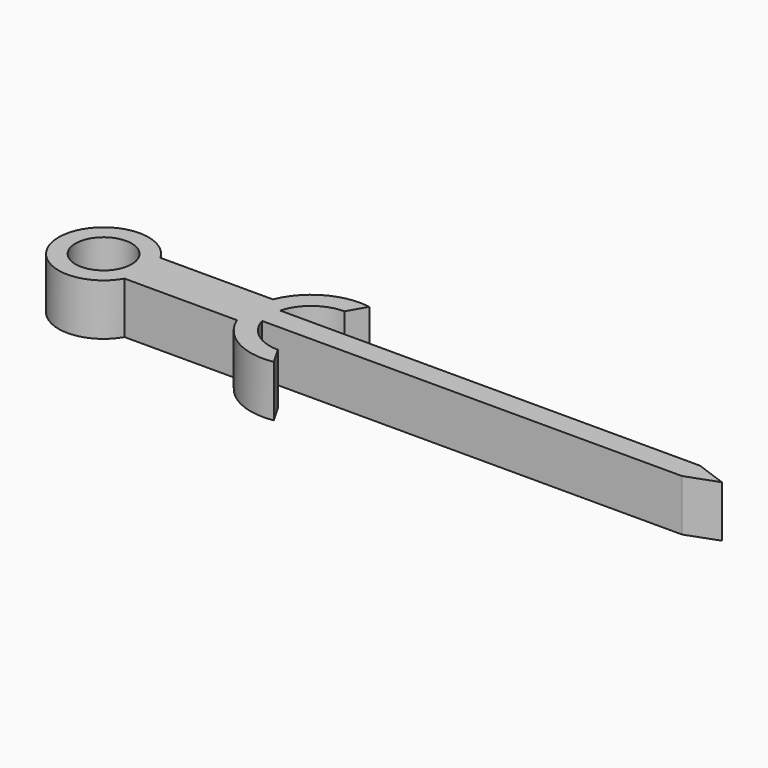
from build123d import *

# Parameters (mm, degrees)
F0_R     = 2.5
F1_DEPTH = 2.29


with BuildPart() as f1:
    # F0 (on Top) → F1 (new body, symmetric)
    with BuildSketch(Plane.XY):
        with BuildLine():
            Line((3.4641016151, -2), (3.4641016151, 0))
            Line((3.4641016151, 0), (3.4641016151, 2))
            ThreePointArc((3.4641016151, 2), (-4, 0), (3.4641016151, -2))
        make_face()
        Circle(F0_R, mode=Mode.SUBTRACT)
        with BuildLine():
            Line((4, 0), (3.4641016151, 0))
            Line((3.4641016151, 0), (3.4641016151, -2))
            ThreePointArc((3.4641016151, -2), (3.8637033052, -1.0352761804), (4, 0))
        make_face()
        with BuildLine():
            Line((3.4641016151, 2), (3.4641016151, 0))
            Line((3.4641016151, 0), (4, 0))
            ThreePointArc((4, 0), (3.8637033052, 1.0352761804), (3.4641016151, 2))
        make_face()
        with BuildLine():
            Line((13.4641016151, 0), (4, 0))
            ThreePointArc((4, 0), (3.8637033052, -1.0352761804), (3.4641016151, -2))
            Line((3.4641016151, -2), (13.4641016151, -2))
            Line((13.4641016151, -2), (13.4641016151, 0))
        make_face()
        with BuildLine():
            ThreePointArc((3.4641016151, 2), (3.8637033052, 1.0352761804), (4, 0))
            Line((4, 0), (13.4641016151, 0))
            Line((13.4641016151, 0), (13.4641016151, 2))
            Line((13.4641016151, 2), (3.4641016151, 2))
        make_face()
        Polygon((14.4215287229, 0), (13.4641016151, 0), (13.4641016151, -2), align=None)
        Polygon((13.4641016151, 2), (13.4641016151, 0), (14.4215287229, 0), align=None)
        Polygon((16.3363829384, 0), (14.4215287229, 0), (14.9002422768, -1), align=None)
        Polygon((14.9002422768, 1), (14.4215287229, 0), (16.3363829384, 0), align=None)
        Polygon((14.4215287229, 0), (13.4641016151, -2), (14.9002422768, -1), align=None)
        with BuildLine():
            Line((14.9002422768, -1), (13.4641016151, -2))
            ThreePointArc((13.4641016151, -2), (15.841018376, -4.7031302683), (19.3898786666, -5.3049916919))
            Line((19.3898786666, -5.3049916919), (18.4641016151, -3.7014988023))
            ThreePointArc((18.4641016151, -3.7014988023), (16.2280789653, -2.9497959409), (14.9002422768, -1))
        make_face()
        Polygon((16.3363829384, 0), (14.9002422768, -1), (52.2525225805, -1), (55, 0), align=None)
        Polygon((52.2525225805, 1), (14.9002422768, 1), (16.3363829384, 0), (55, 0), align=None)
        with BuildLine():
            ThreePointArc((19.3898786666, 5.3049916919), (15.841018376, 4.7031302683), (13.4641016151, 2))
            Line((13.4641016151, 2), (14.9002422768, 1))
            ThreePointArc((14.9002422768, 1), (16.2280789653, 2.9497959409), (18.4641016151, 3.7014988023))
            Line((18.4641016151, 3.7014988023), (19.3898786666, 5.3049916919))
        make_face()
        Polygon((14.9002422768, 1), (13.4641016151, 2), (14.4215287229, 0), align=None)
    extrude(amount=F1_DEPTH, both=True)


solid = f1.part
